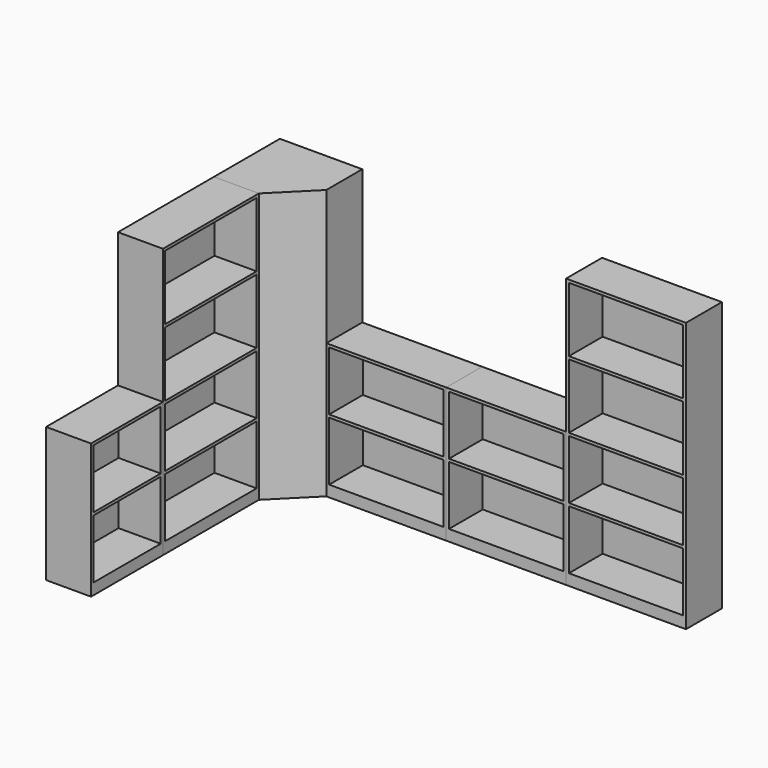
from build123d import *

# Parameters (mm, degrees)
F0_W      = 304.8
F0_H      = 609.6
F1_DEPTH  = 914.4
F0_H_2    = 812.8
F2_DEPTH  = 1828.8
F3_DEPTH  = 1828.8
F0_W_2    = 812.8
F0_H_3    = 304.8
F4_DEPTH  = 914.4
F5_DEPTH  = 914.4
F6_DEPTH  = 1828.8
F7_W      = 571.5
F7_H      = 400.05
F7_W_2    = 774.7
F7_H_2    = 438.15
F8_DEPTH  = 285.75
F9_W      = 774.7
F9_H      = 400.05
F9_H_2    = 438.15
F10_DEPTH = 285.75


with BuildPart() as f1:
    # F0 (on Top) → F1 (new body)
    with BuildSketch(Plane.XY):
        with Locations((152.4, -1676.4)):
            Rectangle(F0_W, F0_H)
    extrude(amount=F1_DEPTH)


with BuildPart() as f2:
    # F0 (on Top) → F2 (new body)
    with BuildSketch(Plane.XY):
        with Locations((152.4, -965.2)):
            Rectangle(F0_W, F0_H_2)
    extrude(amount=F2_DEPTH)


with BuildPart() as f3:
    # F0 (on Top) → F3 (new body)
    with BuildSketch(Plane.XY):
        Polygon((558.8, 0), (0, 0), (0, -558.8), (304.8, -558.8), (558.8, -304.8), align=None)
    extrude(amount=F3_DEPTH)


with BuildPart() as f4:
    # F0 (on Top) → F4 (new body)
    with BuildSketch(Plane.XY):
        with Locations((965.2, -152.4)):
            Rectangle(F0_W_2, F0_H_3)
    extrude(amount=F4_DEPTH)


with BuildPart() as f5:
    # F0 (on Top) → F5 (new body)
    with BuildSketch(Plane.XY):
        with Locations((1778, -152.4)):
            Rectangle(F0_W_2, F0_H_3)
    extrude(amount=F5_DEPTH)


with BuildPart() as f6:
    # F0 (on Top) → F6 (new body)
    with BuildSketch(Plane.XY):
        with Locations((2590.8, -152.4)):
            Rectangle(F0_W_2, F0_H_3)
    extrude(amount=F6_DEPTH)


with BuildPart() as f8_tool:
    # F7 (on face) → F8 (new body)
    with BuildSketch(Plane.YZ.offset(304.8)):
        with Locations((-1676.4, 695.325)):
            Rectangle(F7_W, F7_H)
        with Locations((-1676.4, 276.225)):
            Rectangle(F7_W, F7_H)
        with Locations((-965.2, 276.225)):
            Rectangle(F7_W_2, F7_H)
        with Locations((-965.2, 695.325)):
            Rectangle(F7_W_2, F7_H)
        with Locations((-965.2, 1133.475)):
            Rectangle(F7_W_2, F7_H_2)
        with Locations((-965.2, 1590.675)):
            Rectangle(F7_W_2, F7_H_2)
    extrude(amount=-F8_DEPTH)


with BuildPart() as f1_1:
    add(f1.part)

    # F8: cut by f8_tool
    add(f8_tool.part, mode=Mode.SUBTRACT)


with BuildPart() as f2_1:
    add(f2.part)

    # F8: cut by f8_tool
    add(f8_tool.part, mode=Mode.SUBTRACT)


with BuildPart() as f10_tool:
    # F9 (on face) → F10 (new body)
    with BuildSketch(Plane.XZ.offset(304.8)):
        with Locations((965.2, 695.325)):
            Rectangle(F9_W, F9_H)
        with Locations((1778, 695.325)):
            Rectangle(F9_W, F9_H)
        with Locations((2590.8, 695.325)):
            Rectangle(F9_W, F9_H)
        with Locations((965.2, 276.225)):
            Rectangle(F9_W, F9_H)
        with Locations((1778, 276.225)):
            Rectangle(F9_W, F9_H)
        with Locations((2590.8, 276.225)):
            Rectangle(F9_W, F9_H)
        with Locations((2590.8, 1133.475)):
            Rectangle(F9_W, F9_H_2)
        with Locations((2590.8, 1590.675)):
            Rectangle(F9_W, F9_H_2)
    extrude(amount=-F10_DEPTH)


with BuildPart() as f4_1:
    add(f4.part)

    # F10: cut by f10_tool
    add(f10_tool.part, mode=Mode.SUBTRACT)


with BuildPart() as f5_1:
    add(f5.part)

    # F10: cut by f10_tool
    add(f10_tool.part, mode=Mode.SUBTRACT)


with BuildPart() as f6_1:
    add(f6.part)

    # F10: cut by f10_tool
    add(f10_tool.part, mode=Mode.SUBTRACT)


solid = Compound([f3.part, f1_1.part, f2_1.part, f4_1.part, f5_1.part, f6_1.part])
